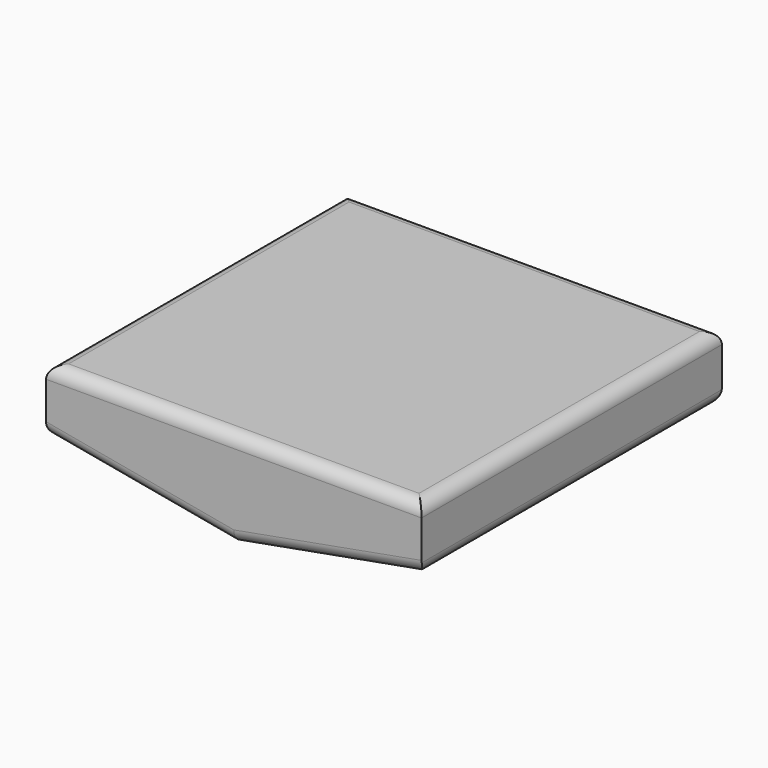
from build123d import *

# Parameters (mm, degrees)
F1_DEPTH = 152.4
F2_R     = 5.08
F3_R     = 5.08


with BuildPart() as f1:
    # F0 (on Front) → F1 (new body)
    with BuildSketch(Plane.XZ):
        Polygon((76.2, 0), (0, 0), (-76.2, 0), (-76.2, -25.4), (0, -39.274979), (76.2, -25.4), align=None)
    extrude(amount=-F1_DEPTH)

    # F2
    f2_edges = [f1.edges().sort_by_distance(p)[0] for p in [
        (76.2, 76.2, 0),
        (0, 152.4, 0),
        (-76.2, 76.2, 0),
        (0, 0, 0),
    ]]
    fillet(f2_edges, radius=F2_R)

    # F3
    f3_edges = [f1.edges().sort_by_distance(p)[0] for p in [
        (76.2, 76.2, -25.4),
        (38.1, 0, -32.33749),
        (-38.1, 0, -32.33749),
        (38.1, 152.4, -32.33749),
        (-38.1, 152.4, -32.33749),
        (-76.2, 76.2, -25.4),
    ]]
    fillet(f3_edges, radius=F3_R)


solid = f1.part
